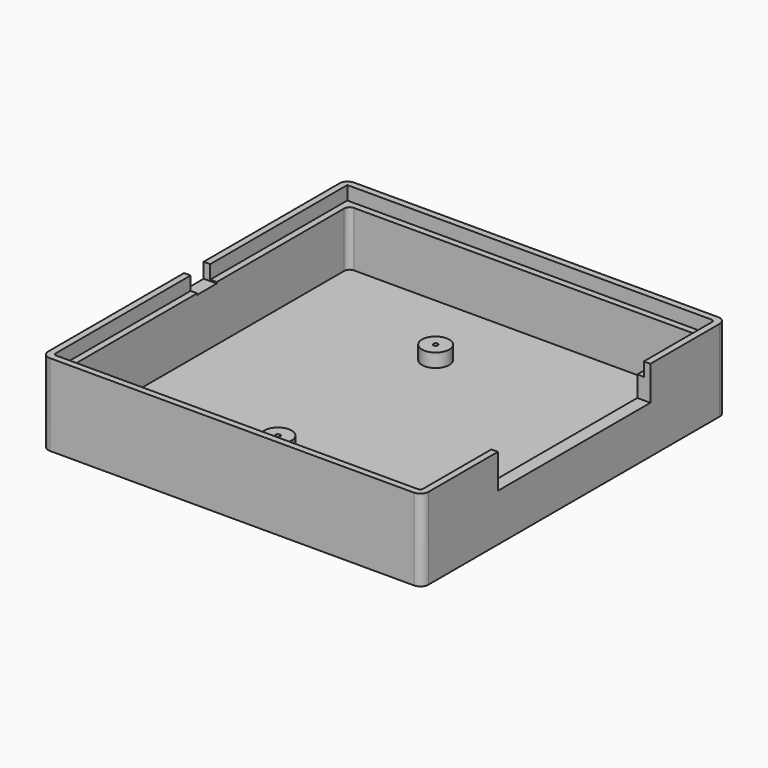
from build123d import *

# Parameters (mm, degrees)
SKETCH001_W     = 139.6
SKETCH001_H     = 139.6
PAD_DEPTH       = 30
SKETCH002_W     = 130
SKETCH002_H     = 130
POCKET_DEPTH    = 25.2
SKETCH003_W     = 134.8
SKETCH003_H     = 134.8
POCKET001_DEPTH = 5
SKETCH004_R     = 5
SKETCH004_R_2   = 0.8255
PAD001_DEPTH    = 5
COPYSKETCH005_W = 70
COPYSKETCH005_H = 12.6
POCKET002_DEPTH = 5
SKETCH006_W     = 9
SKETCH006_H     = 5.5
POCKET003_DEPTH = 5
FILLET_R        = 2
FILLET001_R     = 2
FILLET002_R     = 2
FILLET003_R     = 2
FILLET004_R     = 1
FILLET005_R     = 1
FILLET006_R     = 1
FILLET007_R     = 3
FILLET008_R     = 3
FILLET009_R     = 3
FILLET010_R     = 3


with BuildPart() as part:
    # Sketch001 → Pad (new body)
    with BuildSketch(Plane.XY):
        Rectangle(SKETCH001_W, SKETCH001_H)
    extrude(amount=PAD_DEPTH)

    # Sketch002 (on Face6 of Pad) → Pocket (cut)
    with BuildSketch(Plane.XY.offset(30)):
        Rectangle(SKETCH002_W, SKETCH002_H)
    extrude(amount=-POCKET_DEPTH, mode=Mode.SUBTRACT)

    # Sketch003 (on Face5 of Pocket) → Pocket001 (cut)
    with BuildSketch(Plane.XY.offset(30)):
        Rectangle(SKETCH003_W, SKETCH003_H)
    extrude(amount=-POCKET001_DEPTH, mode=Mode.SUBTRACT)

    # Sketch004 (on Face16 of Pocket001) → Pad001 (join)
    with BuildSketch(Plane.XY.offset(4.8)):
        with Locations((-10, 36.18)):
            Circle(SKETCH004_R)
        with Locations((-10, 36.18)):
            Circle(SKETCH004_R_2, mode=Mode.SUBTRACT)
        with Locations((-10, -36.18)):
            Circle(SKETCH004_R)
        with Locations((-10, -36.18)):
            Circle(SKETCH004_R_2, mode=Mode.SUBTRACT)
    extrude(amount=PAD001_DEPTH)

    # CopySketch005 → Pocket002 (cut)
    with BuildSketch(Plane.YZ.offset(69.8)):
        with Locations((0, 23.7)):
            Rectangle(COPYSKETCH005_W, COPYSKETCH005_H)
    extrude(amount=-POCKET002_DEPTH, mode=Mode.SUBTRACT)

    # Sketch006 (on Face2 of Pocket002) → Pocket003 (cut)
    with BuildSketch(Plane(origin=(-69.8, 0, 0), x_dir=(0, -1, 0), z_dir=(-1, 0, 0))):
        with Locations((0, 27.25)):
            Rectangle(SKETCH006_W, SKETCH006_H)
    extrude(amount=-POCKET003_DEPTH, mode=Mode.SUBTRACT)

    # Fillet
    fillet_edges = [part.edges().sort_by_distance(p)[0] for p in [
        (65, -65, 14.9),
    ]]
    fillet(fillet_edges, radius=FILLET_R)

    # Fillet001
    fillet001_edges = [part.edges().sort_by_distance(p)[0] for p in [
        (65, 65, 14.9),
    ]]
    fillet(fillet001_edges, radius=FILLET001_R)

    # Fillet002
    fillet002_edges = [part.edges().sort_by_distance(p)[0] for p in [
        (-65, 65, 14.9),
    ]]
    fillet(fillet002_edges, radius=FILLET002_R)

    # Fillet003
    fillet003_edges = [part.edges().sort_by_distance(p)[0] for p in [
        (-65, -65, 14.9),
    ]]
    fillet(fillet003_edges, radius=FILLET003_R)

    # Fillet004
    fillet004_edges = [part.edges().sort_by_distance(p)[0] for p in [
        (-67.4, -67.4, 27.5),
    ]]
    fillet(fillet004_edges, radius=FILLET004_R)

    # Fillet005
    fillet005_edges = [part.edges().sort_by_distance(p)[0] for p in [
        (67.4, -67.4, 27.5),
    ]]
    fillet(fillet005_edges, radius=FILLET005_R)

    # Fillet006
    fillet006_edges = [part.edges().sort_by_distance(p)[0] for p in [
        (67.4, 67.4, 27.5),
    ]]
    fillet(fillet006_edges, radius=FILLET006_R)

    # Fillet007
    fillet007_edges = [part.edges().sort_by_distance(p)[0] for p in [
        (69.8, 69.8, 15),
    ]]
    fillet(fillet007_edges, radius=FILLET007_R)

    # Fillet008
    fillet008_edges = [part.edges().sort_by_distance(p)[0] for p in [
        (-69.8, 69.8, 15),
    ]]
    fillet(fillet008_edges, radius=FILLET008_R)

    # Fillet009
    fillet009_edges = [part.edges().sort_by_distance(p)[0] for p in [
        (-69.8, -69.8, 15),
    ]]
    fillet(fillet009_edges, radius=FILLET009_R)

    # Fillet010
    fillet010_edges = [part.edges().sort_by_distance(p)[0] for p in [
        (69.8, -69.8, 15),
    ]]
    fillet(fillet010_edges, radius=FILLET010_R)


solid = part.part
